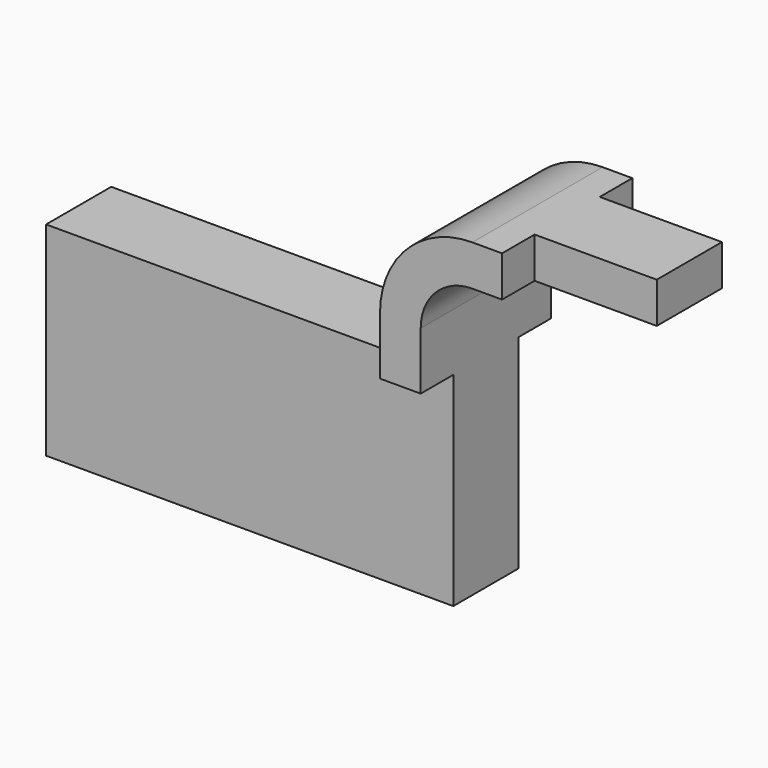
from build123d import *

# Parameters (mm, degrees)
F1_DEPTH = 12.7
F2_DEPTH = 25.4
F0_W     = 38.1
F0_H     = 12.7
F3_DEPTH = 12.7


with BuildPart() as f1:
    # F0 (on Front) → F1 (new body, symmetric)
    with BuildSketch(Plane.XZ):
        Polygon((-63.5, 31.75), (-63.5, -31.75), (63.5, -31.75), (63.5, 31.75), (50.8, 31.75), align=None)
    extrude(amount=F1_DEPTH, both=True)

    # F0 (on Front) → F2 (join, symmetric)
    with BuildSketch(Plane.XZ):
        with BuildLine():
            Line((50.8, 31.75), (63.5, 31.75))
            Line((63.5, 31.75), (63.5, 49.721827))
            ThreePointArc((63.5, 49.721827), (68.214881, 61.104556), (79.59761, 65.819437))
            Line((79.59761, 65.819437), (88.861028, 65.819437))
            Line((88.861028, 65.819437), (88.861028, 78.519437))
            Line((88.861028, 78.519437), (79.59761, 78.519437))
            ThreePointArc((79.59761, 78.519437), (59.234625, 70.084812), (50.8, 49.721827))
            Line((50.8, 49.721827), (50.8, 31.75))
        make_face()
    extrude(amount=F2_DEPTH, both=True)

    # F0 (on Front) → F3 (join, symmetric)
    with BuildSketch(Plane.XZ):
        with Locations((107.911028, 72.169437)):
            Rectangle(F0_W, F0_H)
    extrude(amount=F3_DEPTH, both=True)


solid = f1.part
